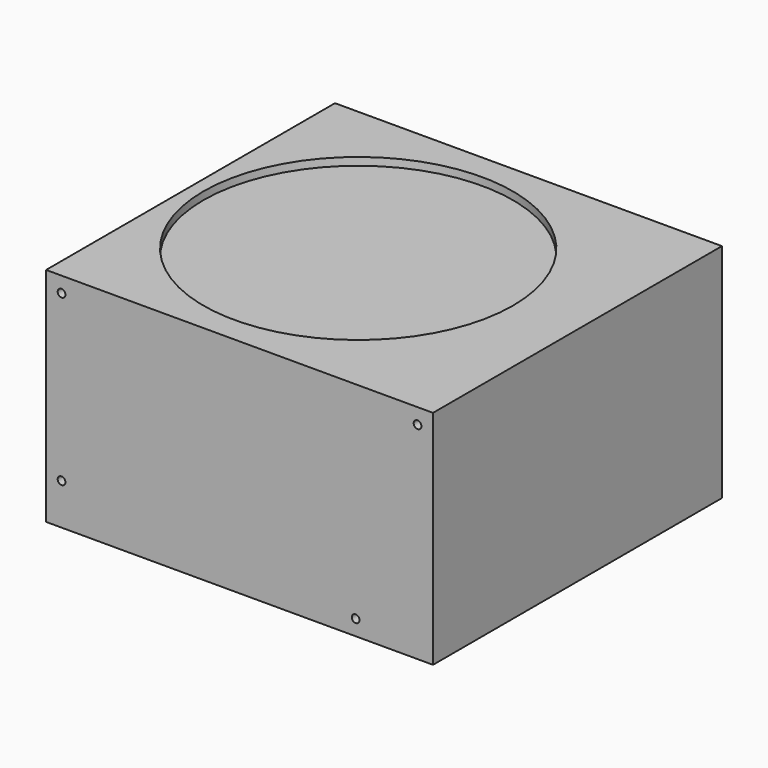
from build123d import *

# Parameters (mm, degrees)
F0_W     = 150
F0_H     = 140
F1_DEPTH = 86
F2_R     = 1.5
F3_DEPTH = 10
F4_R     = 60
F5_DEPTH = 3


with BuildPart() as f1:
    # F0 (on Top) → F1 (new body)
    with BuildSketch(Plane.XY):
        with Locations((75, 70)):
            Rectangle(F0_W, F0_H)
    extrude(amount=F1_DEPTH)

    # F2 (on face) → F3 (cut)
    with BuildSketch(Plane.XZ):
        with Locations((6, 80)):
            Circle(F2_R)
        with Locations((6, 16)):
            Circle(F2_R)
        with Locations((144, 80)):
            Circle(F2_R)
        with Locations((120, 6)):
            Circle(F2_R)
    extrude(amount=-F3_DEPTH, mode=Mode.SUBTRACT)

    # F4 (on face) → F5 (cut)
    with BuildSketch(Plane.XY.offset(86)):
        with Locations((65, 70)):
            Circle(F4_R)
    extrude(amount=-F5_DEPTH, mode=Mode.SUBTRACT)


solid = f1.part
